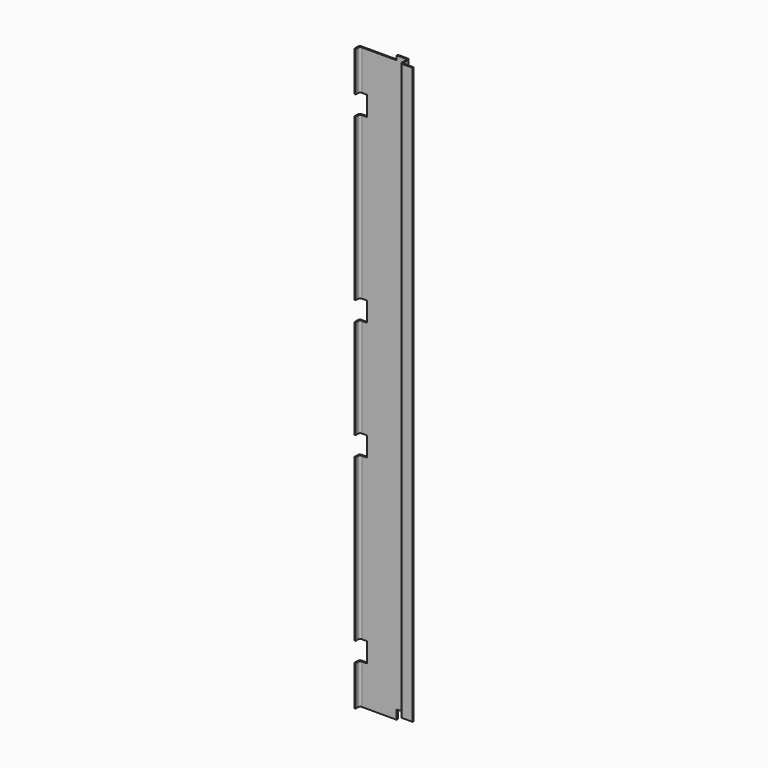
from build123d import *

# Parameters (mm, degrees)
F1_DEPTH = 2700
F2_W     = 175
F2_H     = 20
F3_DEPTH = 46.001
F4_W     = 29.575
F4_H     = 90
F4_W_2   = 9
F5_DEPTH = 46.001
F6_W     = 120
F6_H     = 62
F7_DEPTH = 46.001


with BuildPart() as f1:
    # F0 (on Top) → F1 (new body)
    with BuildSketch(Plane.XY):
        with BuildLine():
            Line((-127.6665818456, 21), (-127.6665818456, 0))
            Line((-127.6665818456, 0), (-121.6665818456, 0))
            Line((-121.6665818456, 0), (-121.6665818456, 15))
            ThreePointArc((-121.6665818456, 15), (-119.0305428763, 21.3639610307), (-112.6665818456, 24))
            Line((-112.6665818456, 24), (-12.6665818456, 24))
            Line((-12.6665818456, 24), (-12.6665818456, 30))
            Line((-12.6665818456, 30), (-118.6665818456, 30))
            ThreePointArc((-118.6665818456, 30), (-125.0305428763, 27.3639610307), (-127.6665818456, 21))
        make_face()
        with BuildLine():
            Line((93.3334181544, 30), (-12.6665818456, 30))
            Line((-12.6665818456, 30), (-12.6665818456, 24))
            Line((-12.6665818456, 24), (87.3334181544, 24))
            ThreePointArc((87.3334181544, 24), (93.697379185, 21.3639610307), (96.3334181544, 15))
            Line((96.3334181544, 15), (96.3334181544, -7))
            ThreePointArc((96.3334181544, -7), (98.9694571237, -13.3639610307), (105.3334181544, -16))
            Line((105.3334181544, -16), (152.3334181544, -16))
            Line((152.3334181544, -16), (152.3334181544, -10))
            Line((152.3334181544, -10), (111.3334181544, -10))
            ThreePointArc((111.3334181544, -10), (104.9694571237, -7.3639610307), (102.3334181544, -1))
            Line((102.3334181544, -1), (102.3334181544, 21))
            ThreePointArc((102.3334181544, 21), (99.697379185, 27.3639610307), (93.3334181544, 30))
        make_face()
    extrude(amount=F1_DEPTH)

    # F2 (on face) → F3 (cut, through all)
    with BuildSketch(Plane(origin=(0, 30, 0), x_dir=(-1, 0, 0), z_dir=(0, 1, 0))):
        with Locations((40.1665818456, 2690)):
            Rectangle(F2_W, F2_H)
        Polygon((-47.3334181544, 0), (118.6665818456, 0), (127.6665818456, 0), (127.6665818456, 20), (-47.3334181544, 20), align=None)
    extrude(amount=-F3_DEPTH, mode=Mode.SUBTRACT)

    # F4 (on face) → F5 (cut, through all)
    with BuildSketch(Plane(origin=(0, 30, 0), x_dir=(-1, 0, 0), z_dir=(0, 1, 0))):
        with Locations((103.8790818456, 2452)):
            Rectangle(F4_W, F4_H)
        with Locations((123.1665818456, 2452)):
            Rectangle(F4_W_2, F4_H)
        with Locations((123.1665818456, 248)):
            Rectangle(F4_W_2, F4_H)
        with Locations((103.8790818456, 248)):
            Rectangle(F4_W, F4_H)
        with Locations((103.8790818456, 1078)):
            Rectangle(F4_W, F4_H)
        with Locations((123.1665818456, 1078)):
            Rectangle(F4_W_2, F4_H)
        with Locations((103.8790818456, 1622)):
            Rectangle(F4_W, F4_H)
        with Locations((123.1665818456, 1622)):
            Rectangle(F4_W_2, F4_H)
    extrude(amount=-F5_DEPTH, mode=Mode.SUBTRACT)

    # F6 (on face) → F7 (cut, through all)
    with BuildSketch(Plane(origin=(0, 30, 0), x_dir=(-1, 0, 0), z_dir=(0, 1, 0))):
        with Locations((-107.3334181544, 31)):
            Rectangle(F6_W, F6_H)
    extrude(amount=-F7_DEPTH, mode=Mode.SUBTRACT)


solid = f1.part
